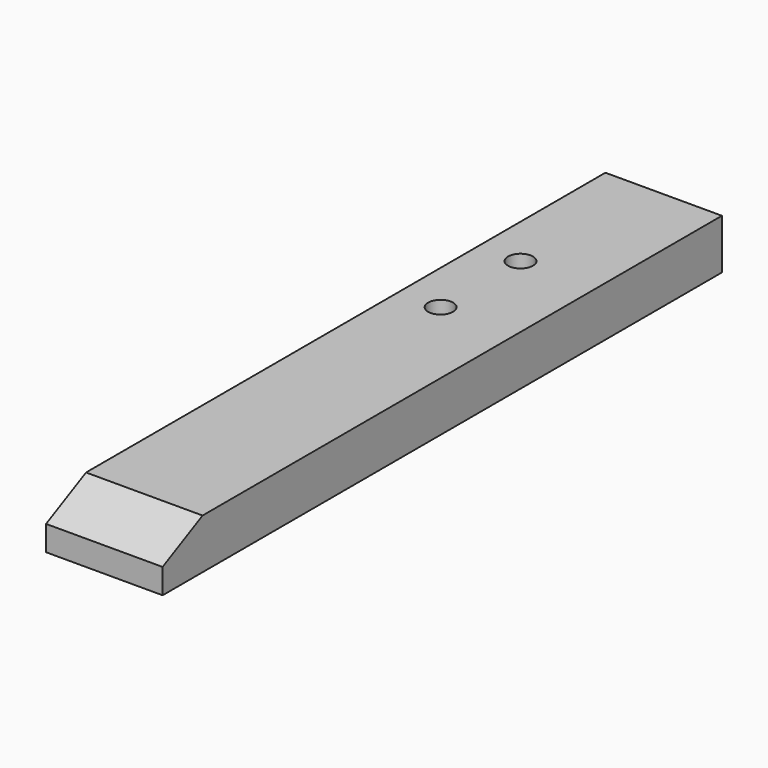
from build123d import *

# Parameters (mm, degrees)
F0_W     = 88.9
F0_H     = 38.1
F1_DEPTH = 266.7
F3_DEPTH = 88.901
F4_R     = 9.525
F5_DEPTH = 38.101


with BuildPart() as f1:
    # F0 (on Front) → F1 (new body, symmetric)
    with BuildSketch(Plane.XZ):
        with Locations((2.043676, -0.6204)):
            Rectangle(F0_W, F0_H)
    extrude(amount=F1_DEPTH, both=True)

    # F2 (on face) → F3 (cut, through all)
    with BuildSketch(Plane.YZ.offset(46.493676)):
        Polygon((-266.7, -0.6204), (-228.6, 18.4296), (-266.7, 18.4296), align=None)
    extrude(amount=-F3_DEPTH, mode=Mode.SUBTRACT)

    # F4 (on face) → F5 (cut, through all)
    with BuildSketch(Plane.XY.offset(18.4296)):
        with Locations((-10.656324, 146.05)):
            Circle(F4_R)
        with Locations((-10.656324, 69.85)):
            Circle(F4_R)
    extrude(amount=-F5_DEPTH, mode=Mode.SUBTRACT)


solid = f1.part
